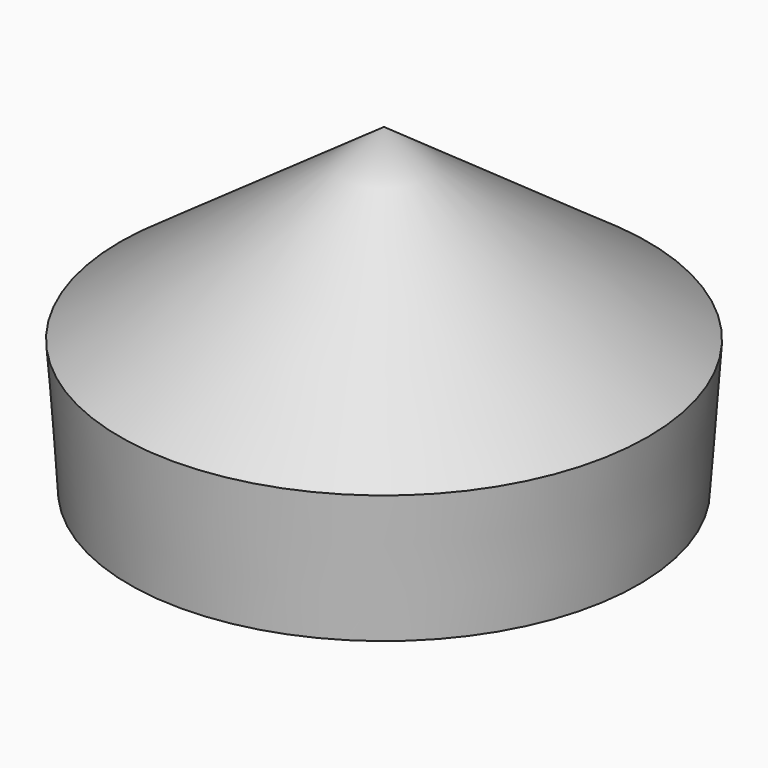
from build123d import *


with BuildPart() as f1:
    # F0 (on Right) → F1 (revolve)
    with BuildSketch(Plane.YZ):
        Polygon((-59.360827, 29.925932), (-57.254035, 0), (0, 0), (0, 72), align=None)
    revolve(axis=Axis((0, 0, 36), (0, 0, 1)))


solid = f1.part
